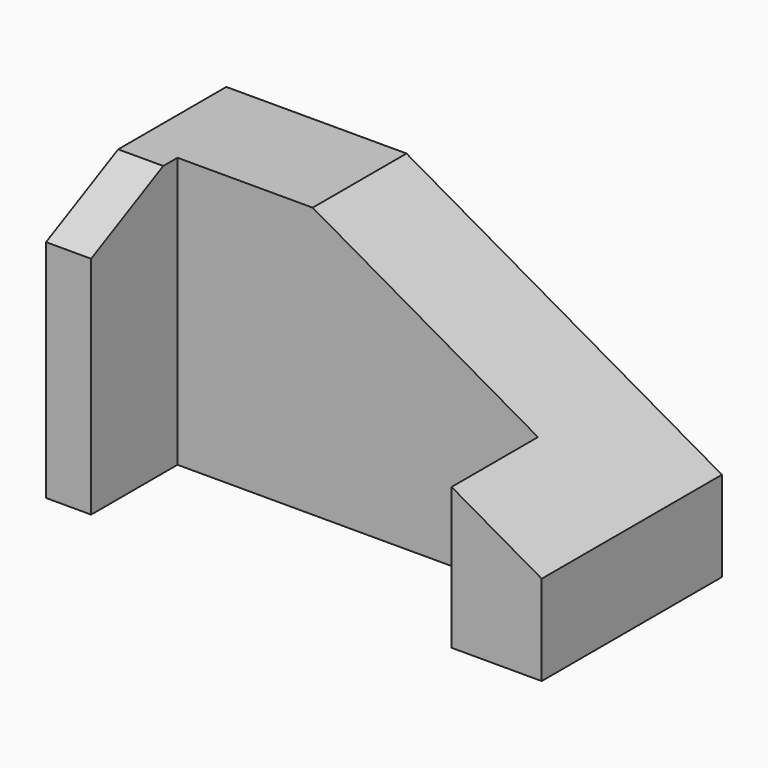
from build123d import *

# Parameters (mm, degrees)
F1_DEPTH = 50
F2_W     = 50
F2_H     = 23.9603407681
F3_DEPTH = 60.001
F4_SIZE2 = 10
F4_SIZE  = 20


with BuildPart() as f1:
    # F0 (on Front) → F1 (new body)
    with BuildSketch(Plane.XZ):
        Polygon((-110, 0), (0, 0), (0, 20), (-70, 60), (-110, 60), align=None)
    extrude(amount=-F1_DEPTH)

    # F2 (on face) → F3 (cut, through all)
    with BuildSketch(Plane.XY.offset(60)):
        Polygon((-100, 20), (-100, 0), (-70, 0), (-70, 23.9603407681), (-100, 23.9603407681), align=None)
        with Locations((-45, 11.980170384)):
            Rectangle(F2_W, F2_H)
    extrude(amount=-F3_DEPTH, mode=Mode.SUBTRACT)

    # F4
    f4_edges = [f1.edges().sort_by_distance(p)[0] for p in [
        (-105, 0, 60),
    ]]
    f4_side = f1.faces().sort_by_distance((-92.805245, 32.304762, 60))[0]
    chamfer(f4_edges, length=F4_SIZE, length2=F4_SIZE2, reference=f4_side)


solid = f1.part
